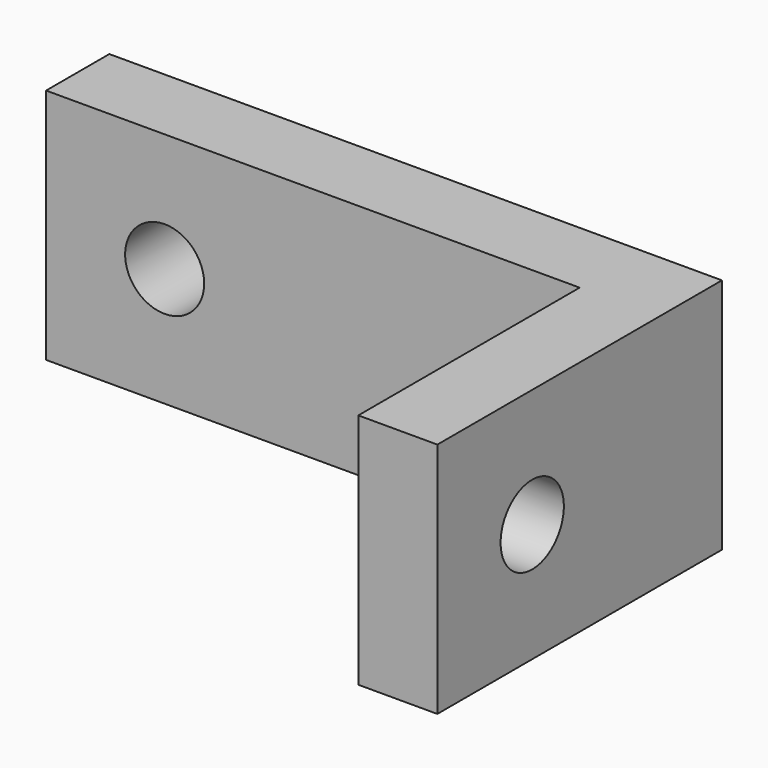
from build123d import *

# Parameters (mm, degrees)
F0_W     = 15.5
F0_H     = 6
F0_R     = 1
F1_DEPTH = 2
F2_W     = 2
F2_H     = 6
F3_DEPTH = 7
F4_R     = 1
F5_DEPTH = 25


with BuildPart() as f1:
    # F0 (on Front) → F1 (new body)
    with BuildSketch(Plane.XZ):
        Rectangle(F0_W, F0_H)
        with Locations((-4.75, 0)):
            Circle(F0_R, mode=Mode.SUBTRACT)
    extrude(amount=F1_DEPTH)

    # F2 (on face) → F3 (join)
    with BuildSketch(Plane.XZ.offset(2)):
        with Locations((6.75, 0)):
            Rectangle(F2_W, F2_H)
    extrude(amount=F3_DEPTH)

    # F4 (on face) → F5 (cut)
    with BuildSketch(Plane(origin=(5.75, 0, 0), x_dir=(0, -1, 0), z_dir=(-1, 0, 0))):
        with Locations((6, 0)):
            Circle(F4_R)
    extrude(amount=-F5_DEPTH, mode=Mode.SUBTRACT)


solid = f1.part
